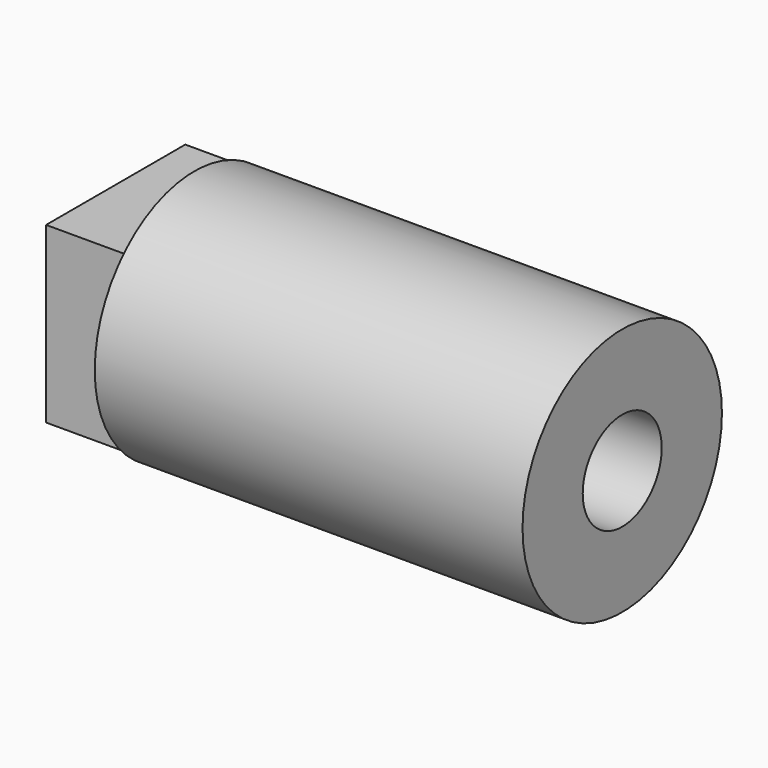
from build123d import *

# Parameters (mm, degrees)
F0_W     = 17.4498
F0_H     = 17.4498
F1_DEPTH = 7.8994
F0_R     = 12.4968
F2_DEPTH = 42.9006
F3_R     = 4.953
F4_DEPTH = 50.8


with BuildPart() as f1:
    # F0 (on Right) → F1 (new body)
    with BuildSketch(Plane.YZ):
        Rectangle(F0_W, F0_H)
    extrude(amount=-F1_DEPTH)


with BuildPart() as f2:
    # F0 (on Right) → F2 (new body)
    with BuildSketch(Plane.YZ):
        Circle(F0_R)
        Rectangle(F0_W, F0_H, mode=Mode.SUBTRACT)
        Rectangle(F0_W, F0_H)
    extrude(amount=F2_DEPTH)


with BuildPart() as f4_tool:
    # F3 (on face) → F4 (new body)
    with BuildSketch(Plane(origin=(-7.8994, 0, 0), x_dir=(0, -1, 0), z_dir=(-1, 0, 0))):
        Circle(F3_R)
    extrude(amount=-F4_DEPTH)


with BuildPart() as f1_1:
    add(f1.part)

    # F4: cut by f4_tool
    add(f4_tool.part, mode=Mode.SUBTRACT)


with BuildPart() as f2_1:
    add(f2.part)

    # F4: cut by f4_tool
    add(f4_tool.part, mode=Mode.SUBTRACT)


solid = Compound([f1_1.part, f2_1.part])
